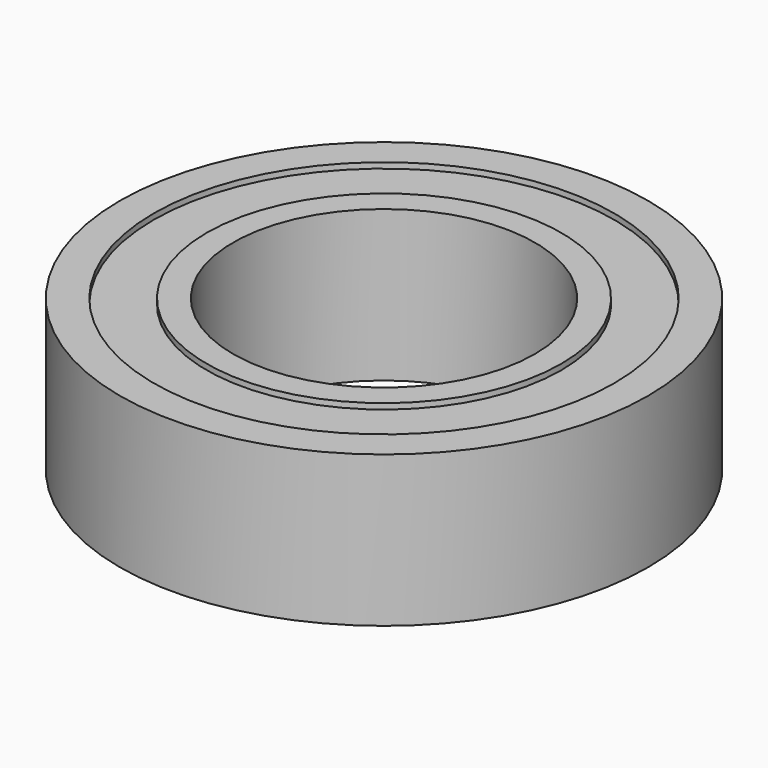
from build123d import *

# Parameters (mm, degrees)
F0_R     = 6.1
F0_R_2   = 4.7
F1_DEPTH = 1.85
F0_R_3   = 7
F0_R_4   = 4
F2_DEPTH = 2


with BuildPart() as f1:
    # F0 (on Top) → F1 (new body, symmetric)
    with BuildSketch(Plane.XY):
        Circle(F0_R)
        Circle(F0_R_2, mode=Mode.SUBTRACT)
    extrude(amount=F1_DEPTH, both=True)

    # F0 (on Top) → F2 (join, symmetric)
    with BuildSketch(Plane.XY):
        Circle(F0_R_3)
        Circle(F0_R, mode=Mode.SUBTRACT)
        Circle(F0_R_2)
        Circle(F0_R_4, mode=Mode.SUBTRACT)
    extrude(amount=F2_DEPTH, both=True)


solid = f1.part
